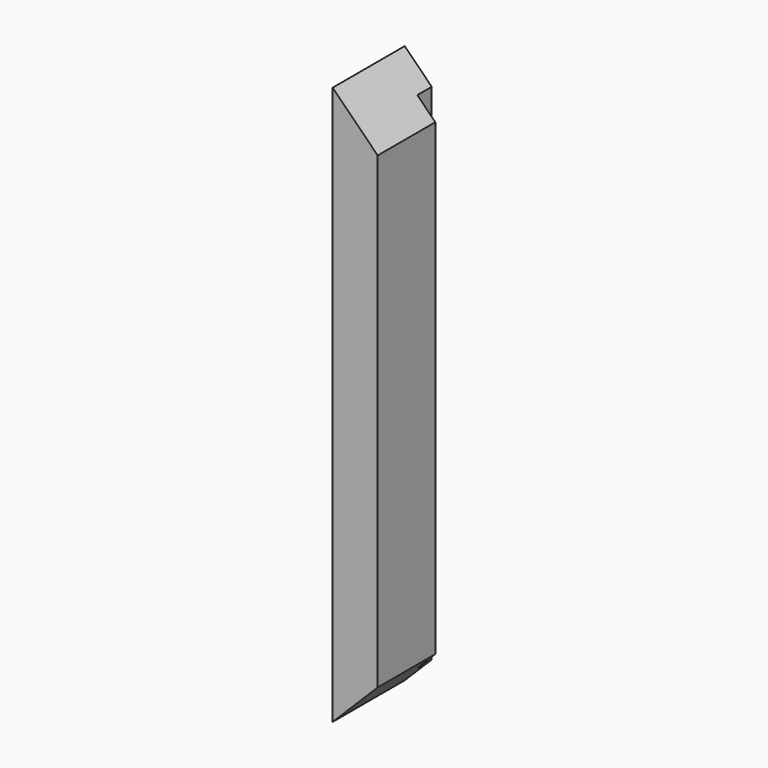
from build123d import *

# Parameters (mm, degrees)
F1_DEPTH = 196.85
F3_DEPTH = 31.751


with BuildPart() as f1:
    # F0 (on Top) → F1 (new body)
    with BuildSketch(Plane.XY):
        Polygon((1.5875, 9.525), (1.5875, 15.875), (-7.9375, 15.875), (-7.9375, -15.875), (7.9375, -15.875), (7.9375, 9.525), align=None)
    extrude(amount=F1_DEPTH)

    # F2 (on face) → F3 (cut, through all)
    with BuildSketch(Plane.XZ.offset(15.875)):
        Polygon((7.9375, 196.85), (-7.9375, 196.85), (7.9375, 180.975), align=None)
        Polygon((7.9375, 15.875), (-7.9375, 0), (7.9375, 0), align=None)
    extrude(amount=-F3_DEPTH, mode=Mode.SUBTRACT)


solid = f1.part
